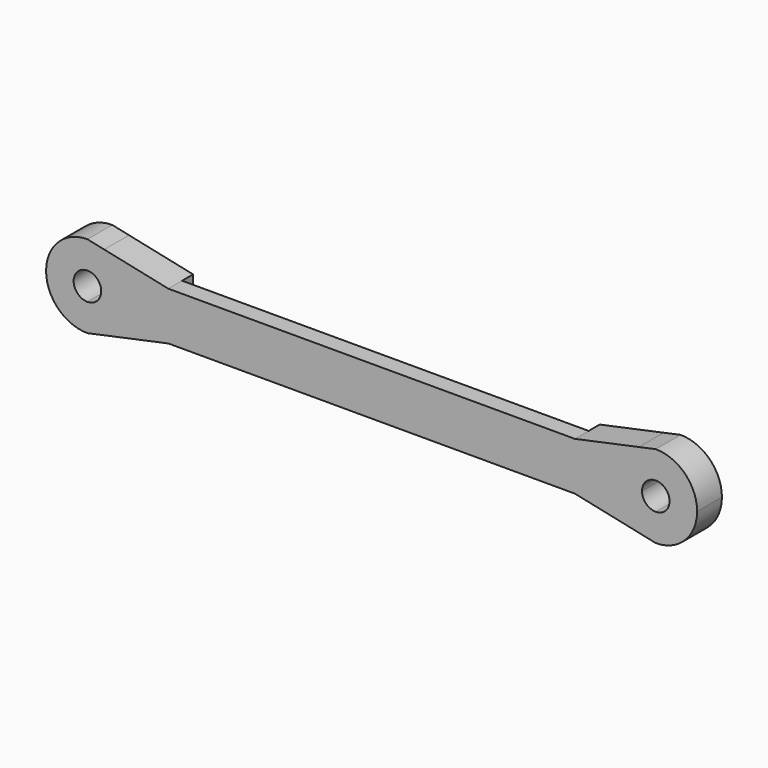
from build123d import *

# Parameters (mm, degrees)
F1_DEPTH = 11.43
F2_W     = 149.86
F2_H     = 5.08
F3_DEPTH = 6.35


with BuildPart() as f1:
    # F0 (on Front) → F1 (new body)
    with BuildSketch(Plane.XZ):
        with BuildLine():
            ThreePointArc((-169.9670475861, 49.0251986432), (-185.2070475861, 33.7851986432), (-169.9670475861, 18.5451986432))
            Line((-169.9670475861, 18.5451986432), (-169.9670475861, 28.7051986432))
            ThreePointArc((-169.9670475861, 28.7051986432), (-175.0470475861, 33.7851986432), (-169.9670475861, 38.8651986432))
            Line((-169.9670475861, 38.8651986432), (-169.9670475861, 49.0251986432))
        make_face()
        with BuildLine():
            Line((-163.7579769186, 47.7029944977), (-169.9670475861, 49.0251986432))
            Line((-169.9670475861, 49.0251986432), (-169.9670475861, 38.8651986432))
            ThreePointArc((-169.9670475861, 38.8651986432), (-166.3749451376, 37.3773010916), (-164.8870475861, 33.7851986432))
            Line((-164.8870475861, 33.7851986432), (-157.2670475861, 33.7851986432))
            Line((-157.2670475861, 33.7851986432), (-157.2670475861, 37.5951986432))
            Line((-157.2670475861, 37.5951986432), (-155.210981037, 37.5951986432))
            ThreePointArc((-155.210981037, 37.5951986432), (-158.3297743279, 43.6254969677), (-163.7579769186, 47.7029944977))
        make_face()
        with BuildLine():
            Line((-169.9670475861, 18.5451986432), (-163.7579769186, 19.8674027888))
            ThreePointArc((-163.7579769186, 19.8674027888), (-158.3297743279, 23.9449003188), (-155.210981037, 29.9751986432))
            Line((-155.210981037, 29.9751986432), (-157.2670475861, 29.9751986432))
            Line((-157.2670475861, 29.9751986432), (-157.2670475861, 33.7851986432))
            Line((-157.2670475861, 33.7851986432), (-164.8870475861, 33.7851986432))
            ThreePointArc((-164.8870475861, 33.7851986432), (-166.3749451376, 30.1930961948), (-169.9670475861, 28.7051986432))
            Line((-169.9670475861, 28.7051986432), (-169.9670475861, 18.5451986432))
        make_face()
        with BuildLine():
            Line((-157.2670475861, 33.7851986432), (-154.7270475861, 33.7851986432))
            ThreePointArc((-154.7270475861, 33.7851986432), (-154.8485150149, 35.7055040606), (-155.210981037, 37.5951986432))
            Line((-155.210981037, 37.5951986432), (-157.2670475861, 37.5951986432))
            Line((-157.2670475861, 37.5951986432), (-157.2670475861, 33.7851986432))
        make_face()
        with BuildLine():
            Line((-157.2670475861, 29.9751986432), (-155.210981037, 29.9751986432))
            ThreePointArc((-155.210981037, 29.9751986432), (-154.8485150149, 31.8648932258), (-154.7270475861, 33.7851986432))
            Line((-154.7270475861, 33.7851986432), (-157.2670475861, 33.7851986432))
            Line((-157.2670475861, 33.7851986432), (-157.2670475861, 29.9751986432))
        make_face()
        with BuildLine():
            Line((-155.210981037, 29.9751986432), (-140.1474475861, 29.9751986432))
            Line((-140.1474475861, 29.9751986432), (-140.1474475861, 33.7851986432))
            Line((-140.1474475861, 33.7851986432), (-154.7270475861, 33.7851986432))
            ThreePointArc((-154.7270475861, 33.7851986432), (-154.8485150149, 31.8648932258), (-155.210981037, 29.9751986432))
        make_face()
        with BuildLine():
            Line((-154.7270475861, 33.7851986432), (-140.1474475861, 33.7851986432))
            Line((-140.1474475861, 33.7851986432), (-140.1474475861, 37.5951986432))
            Line((-140.1474475861, 37.5951986432), (-155.210981037, 37.5951986432))
            ThreePointArc((-155.210981037, 37.5951986432), (-154.8485150149, 35.7055040606), (-154.7270475861, 33.7851986432))
        make_face()
        Polygon((-120.7696199417, 29.9751986432), (9.7125524139, 29.9751986432), (9.7125524139, 33.7851986432), (9.7125524139, 37.5951986432), (-120.7696199417, 37.5951986432), (-140.1474475861, 37.5951986432), (-140.1474475861, 33.7851986432), (-140.1474475861, 29.9751986432), align=None)
        with BuildLine():
            Line((9.7125524139, 37.5951986432), (9.7125524139, 33.7851986432))
            Line((9.7125524139, 33.7851986432), (24.2921524139, 33.7851986432))
            ThreePointArc((24.2921524139, 33.7851986432), (24.4136198428, 35.7055040606), (24.7760858649, 37.5951986432))
            Line((24.7760858649, 37.5951986432), (9.7125524139, 37.5951986432))
        make_face()
        with BuildLine():
            Line((9.7125524139, 33.7851986432), (9.7125524139, 29.9751986432))
            Line((9.7125524139, 29.9751986432), (24.7760858649, 29.9751986432))
            ThreePointArc((24.7760858649, 29.9751986432), (24.4136198428, 31.8648932258), (24.2921524139, 33.7851986432))
            Line((24.2921524139, 33.7851986432), (9.7125524139, 33.7851986432))
        make_face()
        with BuildLine():
            ThreePointArc((24.7760858649, 37.5951986432), (24.4136198428, 35.7055040606), (24.2921524139, 33.7851986432))
            Line((24.2921524139, 33.7851986432), (26.8321524139, 33.7851986432))
            Line((26.8321524139, 33.7851986432), (26.8321524139, 37.5951986432))
            Line((26.8321524139, 37.5951986432), (24.7760858649, 37.5951986432))
        make_face()
        with BuildLine():
            ThreePointArc((24.2921524139, 33.7851986432), (24.4136198428, 31.8648932258), (24.7760858649, 29.9751986432))
            Line((24.7760858649, 29.9751986432), (26.8321524139, 29.9751986432))
            Line((26.8321524139, 29.9751986432), (26.8321524139, 33.7851986432))
            Line((26.8321524139, 33.7851986432), (24.2921524139, 33.7851986432))
        make_face()
        with BuildLine():
            ThreePointArc((33.3230817465, 47.7029944977), (27.8948791558, 43.6254969677), (24.7760858649, 37.5951986432))
            Line((24.7760858649, 37.5951986432), (26.8321524139, 37.5951986432))
            Line((26.8321524139, 37.5951986432), (26.8321524139, 33.7851986432))
            Line((26.8321524139, 33.7851986432), (34.4521524139, 33.7851986432))
            ThreePointArc((34.4521524139, 33.7851986432), (35.9400499655, 37.3773010916), (39.5321524139, 38.8651986432))
            Line((39.5321524139, 38.8651986432), (39.5321524139, 49.0251986432))
            Line((39.5321524139, 49.0251986432), (33.3230817465, 47.7029944977))
        make_face()
        with BuildLine():
            Line((39.5321524139, 28.7051986432), (39.5321524139, 18.5451986432))
            ThreePointArc((39.5321524139, 18.5451986432), (50.3084597592, 23.0088912979), (54.7721524139, 33.7851986432))
            ThreePointArc((54.7721524139, 33.7851986432), (50.3084597592, 44.5615059885), (39.5321524139, 49.0251986432))
            Line((39.5321524139, 49.0251986432), (39.5321524139, 38.8651986432))
            ThreePointArc((39.5321524139, 38.8651986432), (43.1242548624, 37.3773010916), (44.6121524139, 33.7851986432))
            ThreePointArc((44.6121524139, 33.7851986432), (43.1242548624, 30.1930961948), (39.5321524139, 28.7051986432))
        make_face()
        with BuildLine():
            ThreePointArc((24.7760858649, 29.9751986432), (27.8948791558, 23.9449003188), (33.3230817465, 19.8674027888))
            Line((33.3230817465, 19.8674027888), (39.5321524139, 18.5451986432))
            Line((39.5321524139, 18.5451986432), (39.5321524139, 28.7051986432))
            ThreePointArc((39.5321524139, 28.7051986432), (35.9400499655, 30.1930961948), (34.4521524139, 33.7851986432))
            Line((34.4521524139, 33.7851986432), (26.8321524139, 33.7851986432))
            Line((26.8321524139, 33.7851986432), (26.8321524139, 29.9751986432))
            Line((26.8321524139, 29.9751986432), (24.7760858649, 29.9751986432))
        make_face()
        with BuildLine():
            Line((9.7125524139, 42.6751986432), (9.7125524139, 37.5951986432))
            Line((9.7125524139, 37.5951986432), (24.7760858649, 37.5951986432))
            ThreePointArc((24.7760858649, 37.5951986432), (27.8948791558, 43.6254969677), (33.3230817465, 47.7029944977))
            Line((33.3230817465, 47.7029944977), (9.7125524139, 42.6751986432))
        make_face()
        with BuildLine():
            Line((9.7125524139, 29.9751986432), (9.7125524139, 24.8951986432))
            Line((9.7125524139, 24.8951986432), (33.3230817465, 19.8674027888))
            ThreePointArc((33.3230817465, 19.8674027888), (27.8948791558, 23.9449003188), (24.7760858649, 29.9751986432))
            Line((24.7760858649, 29.9751986432), (9.7125524139, 29.9751986432))
        make_face()
        with BuildLine():
            Line((-163.7579769186, 19.8674027888), (-140.1474475861, 24.8951986432))
            Line((-140.1474475861, 24.8951986432), (-140.1474475861, 29.9751986432))
            Line((-140.1474475861, 29.9751986432), (-155.210981037, 29.9751986432))
            ThreePointArc((-155.210981037, 29.9751986432), (-158.3297743279, 23.9449003188), (-163.7579769186, 19.8674027888))
        make_face()
        with BuildLine():
            Line((-155.210981037, 37.5951986432), (-140.1474475861, 37.5951986432))
            Line((-140.1474475861, 37.5951986432), (-140.1474475861, 42.6751986432))
            Line((-140.1474475861, 42.6751986432), (-163.7579769186, 47.7029944977))
            ThreePointArc((-163.7579769186, 47.7029944977), (-158.3297743279, 43.6254969677), (-155.210981037, 37.5951986432))
        make_face()
    extrude(amount=F1_DEPTH)

    # F2 (on face) → F3 (join)
    with BuildSketch(Plane.XZ.offset(11.43)):
        with Locations((-65.2174475861, 40.1351986432)):
            Rectangle(F2_W, F2_H)
        with Locations((-65.2174475861, 27.4351986432)):
            Rectangle(F2_W, F2_H)
    extrude(amount=-F3_DEPTH)


solid = f1.part
